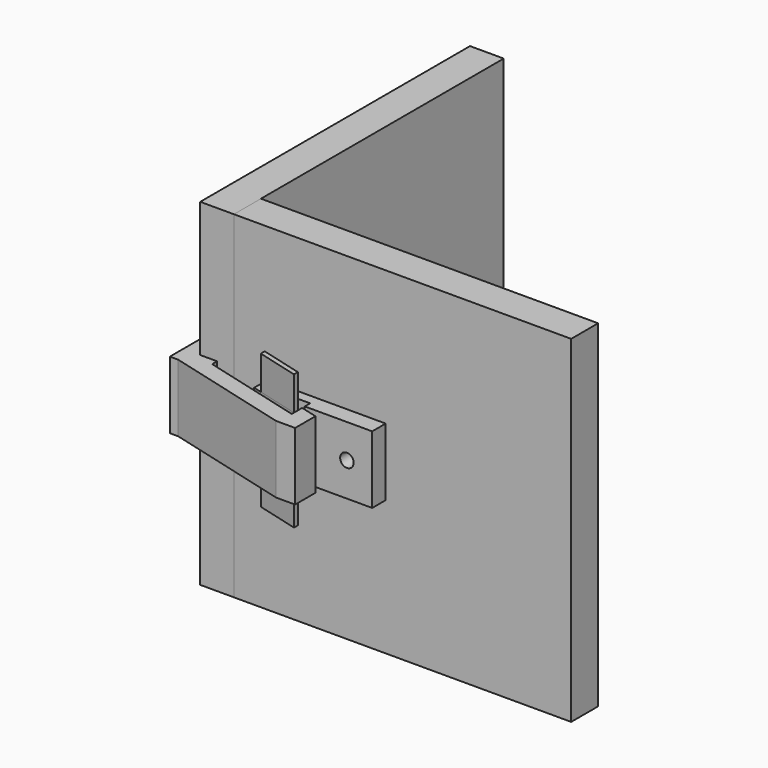
from build123d import *

# Parameters (mm, degrees)
F1_DEPTH  = 127
F0_W      = 127
F0_H      = 12.7
F2_DEPTH  = 127
F3_W      = 44.45
F3_H      = 25.4
F3_R      = 2.54
F4_DEPTH  = 6.35
F6_DEPTH  = 25.4
F8_DEPTH  = 76.201
F10_DEPTH = 12.7
F15_DEPTH = 12.7


with BuildPart() as f1:
    # F0 (on Top) → F1 (new body)
    with BuildSketch(Plane.XY):
        Polygon((12.7, 127), (0, 127), (0, 0), (12.7, 0), (12.7, 12.7), align=None)
    extrude(amount=F1_DEPTH)


with BuildPart() as f2:
    # F0 (on Top) → F2 (new body)
    with BuildSketch(Plane.XY):
        with Locations((76.2, 6.35)):
            Rectangle(F0_W, F0_H)
    extrude(amount=F2_DEPTH)


with BuildPart() as f4:
    # F3 (on face) → F4 (new body)
    with BuildSketch(Plane.XZ):
        with Locations((47.625, 63.5)):
            Rectangle(F3_W, F3_H)
        with Locations((60.325, 63.5)):
            Circle(F3_R, mode=Mode.SUBTRACT)
    extrude(amount=F4_DEPTH)

    # F5 (on face) → F6 (join, through all)
    with BuildSketch(Plane.XY.offset(76.2)):
        Polygon((44.45, -6.35), (25.4, -6.35), (44.45, -11.43), align=None)
    extrude(amount=-F6_DEPTH)

    # F7 (on face) → F8 (cut, through all)
    with BuildSketch(Plane.XY.offset(76.2)):
        Polygon((28.575, -5.3565344927), (44.45, -9.589867826), (44.45, -3.81), (28.575, -3.81), align=None)
    extrude(amount=-F8_DEPTH, mode=Mode.SUBTRACT)

    # F9 (on face) → F10 (join)
    with BuildSketch(Plane.XY.offset(76.2)):
        Polygon((44.45, -11.43), (44.45, -9.589867826), (28.575, -5.3565344927), (28.575, -7.1966666667), align=None)
    extrude(amount=F10_DEPTH)

    # F13: F4 across plane


with BuildPart() as f4_1:
    add(f4.part)
    add(f4.part.mirror(Plane.XY.offset(63.5)))


with BuildPart() as f15:
    # F14 (on plane+point) → F15 (new body, symmetric)
    with BuildSketch(Plane.XY.offset(63.5)):
        Polygon((0, 0), (0, 38.1), (-6.35, 38.1), (-6.35, -6.35), (-3.1877677032, -6.35), (43.6178726697, -18.8315040994), (50.8, -18.8315040994), (50.8, -9.2512011593), (44.45, -7.557867826), (44.45, -12.4815040994), (6.35, -2.3215040994), (6.35, 0), align=None)
    extrude(amount=F15_DEPTH, both=True)


solid = Compound([f1.part, f2.part, f4_1.part, f15.part])
